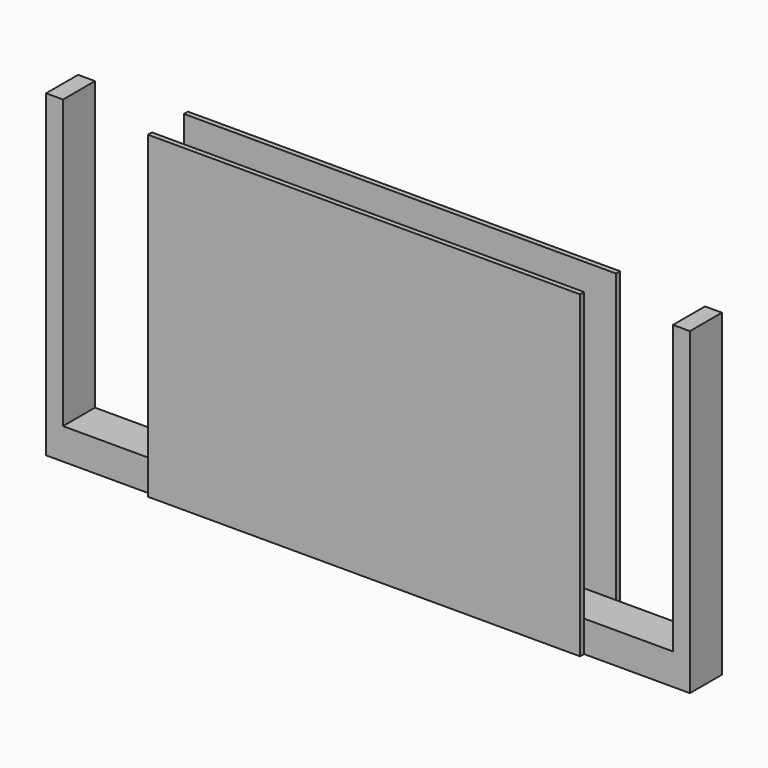
from build123d import *

# Parameters (mm, degrees)
F0_W     = 3.4381157866
F0_H     = 8.128
F0_W_2   = 87.8114402294
F0_H_2   = 1.016
F0_W_3   = 18.0702798853
F1_DEPTH = 6.35
F2_DEPTH = 58.42


with BuildPart() as f1:
    # F0 (on Top) → F1 (new body)
    with BuildSketch(Plane.XY):
        with Locations((-63.6950578933, 0)):
            Rectangle(F0_W, F0_H)
        with Locations((0, 4.572)):
            Rectangle(F0_W_2, F0_H_2)
        with Locations((0, -4.572)):
            Rectangle(F0_W_2, F0_H_2)
        with Locations((-52.9408600574, 0)):
            Rectangle(F0_W_3, F0_H)
        with Locations((52.9408600574, 0)):
            Rectangle(F0_W_3, F0_H)
        with Locations((63.6950578933, 0)):
            Rectangle(F0_W, F0_H)
        Rectangle(F0_W_2, F0_H)
    extrude(amount=-F1_DEPTH)

    # F0 (on Top) → F2 (join)
    with BuildSketch(Plane.XY):
        with Locations((0, 4.572)):
            Rectangle(F0_W_2, F0_H_2)
        with Locations((-63.6950578933, 0)):
            Rectangle(F0_W, F0_H)
        with Locations((63.6950578933, 0)):
            Rectangle(F0_W, F0_H)
        with Locations((0, -4.572)):
            Rectangle(F0_W_2, F0_H_2)
    extrude(amount=F2_DEPTH)


solid = f1.part
